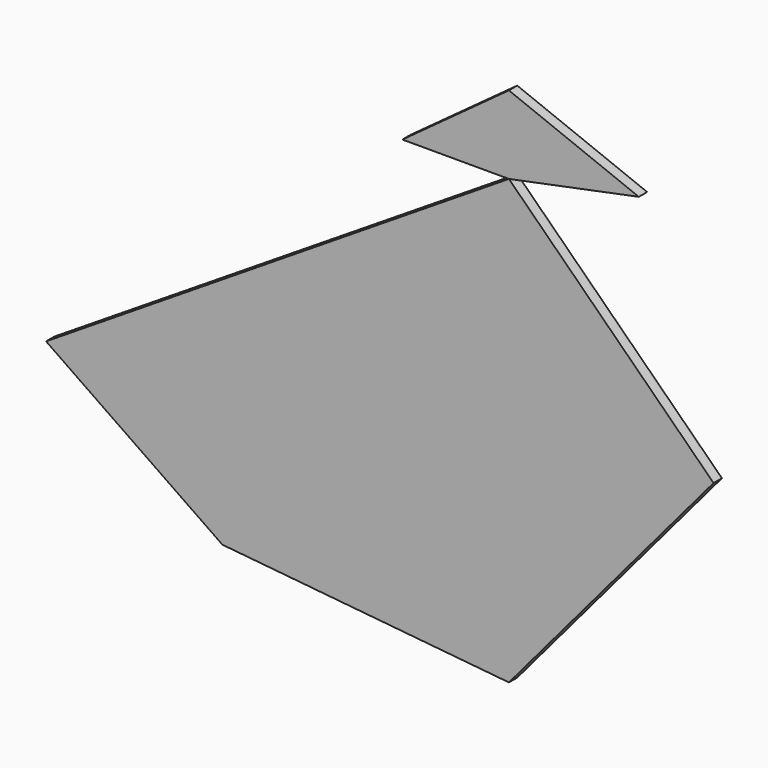
from build123d import *

# Parameters (mm, degrees)
F1_DEPTH = 2.54


with BuildPart() as f1:
    # F0 (on Front) → F1 (new body)
    with BuildSketch(Plane.XZ):
        Polygon((70.169196, 13.54893), (20.252086, 62.610321), (20.252086, -45.495886), align=None)
        Polygon((20.252086, -45.495886), (20.252086, 62.610321), (-49.631871, -38.650107), align=None)
        Polygon((-5.73303, 62.610321), (20.252086, 62.610321), (20.252086, 81.61822), align=None)
        Polygon((20.252086, 81.61822), (20.252086, 62.610321), (51.932704, 69.067441), align=None)
        Polygon((-49.631871, -38.650107), (20.252086, 62.610321), (-92.628901, -8.9761), align=None)
    extrude(amount=F1_DEPTH)


solid = f1.part
